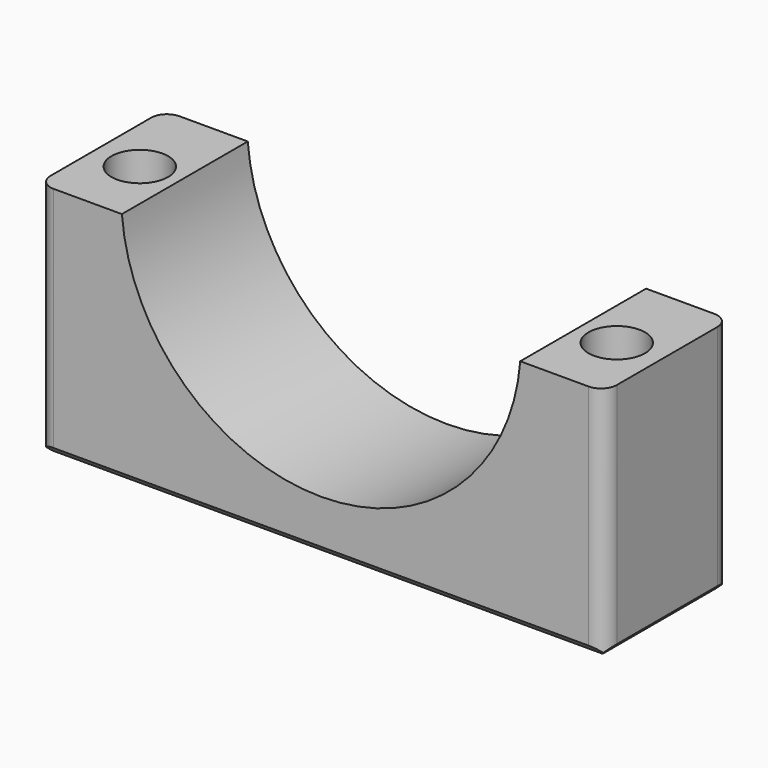
from build123d import *

# Parameters (mm, degrees)
SKETCH_W        = 36
SKETCH_H        = 10
PAD_DEPTH       = 15
SKETCH004_R     = 12.7
POCKET_DEPTH    = 10.001
CHAMFER_SIZE    = 0.5
SKETCH005_R     = 1.8
POCKET001_DEPTH = 15.001
FILLET_R        = 1


with BuildPart() as part:
    # Sketch → Pad (new body)
    with BuildSketch(Plane.XY):
        Rectangle(SKETCH_W, SKETCH_H)
    extrude(amount=PAD_DEPTH)

    # Sketch004 → Pocket (cut, through all)
    with BuildSketch(Plane(origin=(0, 5, 0), x_dir=(-1, 0, 0), z_dir=(0, 1, 0))):
        with Locations((0, 16)):
            Circle(SKETCH004_R)
    extrude(amount=-POCKET_DEPTH, mode=Mode.SUBTRACT)

    # Chamfer
    chamfer_edges = [part.edges().sort_by_distance(p)[0] for p in [
        (0, 5, 0),
        (18, 0, 0),
        (0, -5, 0),
        (-18, 0, 0),
    ]]
    chamfer(chamfer_edges, length=CHAMFER_SIZE)

    # Sketch005 → Pocket001 (cut, through all)
    with BuildSketch(Plane(origin=(0, 0, 0), x_dir=(1, 0, 0), z_dir=(0, 0, -1))):
        with Locations((15.160569, 0.454356)):
            Circle(SKETCH005_R)
        with Locations((-15.160569, 0.454356)):
            Circle(SKETCH005_R)
    extrude(amount=-POCKET001_DEPTH, mode=Mode.SUBTRACT)

    # Fillet
    fillet_edges = [part.edges().sort_by_distance(p)[0] for p in [
        (-18, -5, 7.75),
        (18, -5, 7.75),
        (18, 5, 7.75),
        (-18, 5, 7.75),
    ]]
    fillet(fillet_edges, radius=FILLET_R)


solid = part.part
